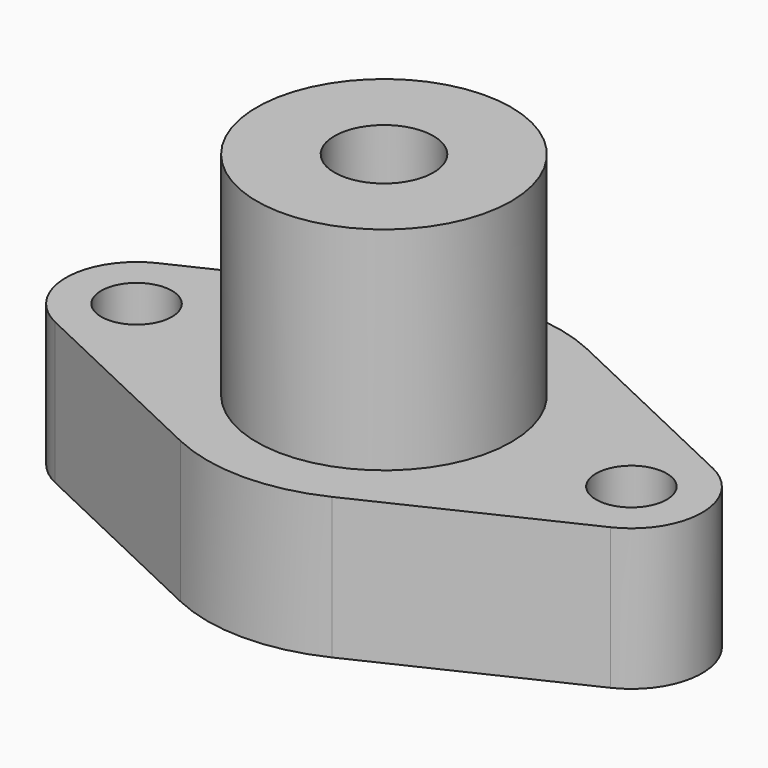
from build123d import *

# Parameters (mm, degrees)
F1_DEPTH = 10
F3_D     = 10
F2_R     = 18
F4_DEPTH = 30
F6_D     = 14
F6_DEPTH = 18
F6_TIP   = 4.2060243332


with BuildPart() as f1:
    # F0 (on Top) → F1 (new body, symmetric)
    with BuildSketch(Plane.XY):
        with BuildLine():
            Line((39.2857142857, 9.0350790291), (10.7142857143, 22.5876975726))
            ThreePointArc((10.7142857143, 22.5876975726), (0, 25), (-10.7142857143, 22.5876975726))
            Line((-10.7142857143, 22.5876975726), (-39.2857142857, 9.0350790291))
            ThreePointArc((-39.2857142857, 9.0350790291), (-45, 0), (-39.2857142857, -9.0350790291))
            Line((-39.2857142857, -9.0350790291), (-10.7142857143, -22.5876975726))
            ThreePointArc((-10.7142857143, -22.5876975726), (0, -25), (10.7142857143, -22.5876975726))
            Line((10.7142857143, -22.5876975726), (39.2857142857, -9.0350790291))
            ThreePointArc((39.2857142857, -9.0350790291), (45, 0), (39.2857142857, 9.0350790291))
        make_face()
    extrude(amount=F1_DEPTH, both=True)

    # F3 (through all)
    with Locations(Plane.XY.offset(10)):
        with Locations((-35, 0), (35, 0)):
            Hole(F3_D / 2)

    # F2 (on face) → F4 (join)
    with BuildSketch(Plane.XY.offset(10)):
        Circle(F2_R)
    extrude(amount=F4_DEPTH)

    # F6
    with Locations(Plane.XY.offset(40)):
        with Locations((0, 0)):
            Hole(F6_D / 2, depth=F6_DEPTH)
            with Locations((0, 0, -(F6_DEPTH + F6_TIP / 2))):  # 118° drill point
                Cone(0, F6_D / 2, F6_TIP, mode=Mode.SUBTRACT)


solid = f1.part
